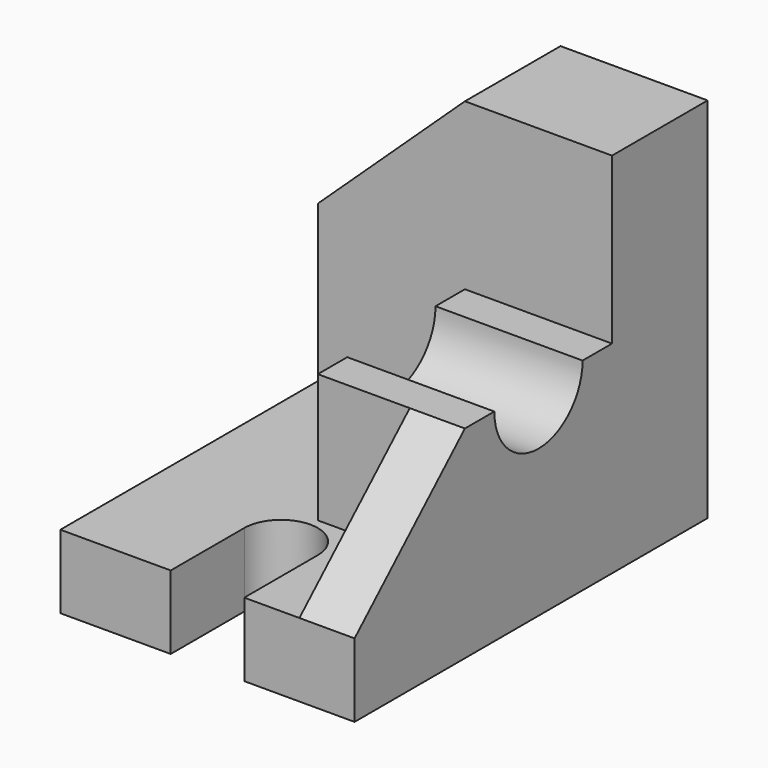
from build123d import *

# Parameters (mm, degrees)
F0_W      = 64
F0_H      = 96
F1_DEPTH  = 16
F3_DEPTH  = 25
F4_W      = 12
F4_H      = 30
F5_DEPTH  = 28
F7_DEPTH  = 25
F8_W      = 32
F8_H      = 40
F9_DEPTH  = 28
F10_R     = 12
F11_DEPTH = 52
F13_DEPTH = 64
F15_DEPTH = 30


with BuildPart() as f1:
    # F0 (on Top) → F1 (new body)
    with BuildSketch(Plane.XY):
        with Locations((6.061017856, -4.2511862218)):
            Rectangle(F0_W, F0_H)
    extrude(amount=F1_DEPTH)

    # F2 (on face) → F3 (cut)
    with BuildSketch(Plane.XY.offset(16)):
        with BuildLine():
            Line((-1.938982144, -32.2511862218), (-1.938982144, -52.2511862218))
            Line((-1.938982144, -52.2511862218), (14.061017856, -52.2511862218))
            Line((14.061017856, -52.2511862218), (14.061017856, -32.2511862218))
            ThreePointArc((14.061017856, -32.2511862218), (6.061017856, -40.2511862218), (-1.938982144, -32.2511862218))
        make_face()
        with BuildLine():
            ThreePointArc((14.061017856, -32.2511862218), (6.061017856, -24.2511862218), (-1.938982144, -32.2511862218))
            Line((-1.938982144, -32.2511862218), (14.061017856, -32.2511862218))
        make_face()
        with BuildLine():
            Line((14.061017856, -32.2511862218), (-1.938982144, -32.2511862218))
            ThreePointArc((-1.938982144, -32.2511862218), (6.061017856, -40.2511862218), (14.061017856, -32.2511862218))
        make_face()
    extrude(amount=-F3_DEPTH, mode=Mode.SUBTRACT)

    # F4 (on face) → F5 (join)
    with BuildSketch(Plane.XY.offset(16)):
        with Locations((32.061017856, -37.2511862218)):
            Rectangle(F4_W, F4_H)
    extrude(amount=F5_DEPTH)

    # F6 (on face) → F7 (cut)
    with BuildSketch(Plane(origin=(26.061017856, 0, 0), x_dir=(0, -1, 0), z_dir=(-1, 0, 0))):
        Polygon((52.2511862218, 44), (22.2511862218, 44), (52.2511862218, 16), align=None)
    extrude(amount=-F7_DEPTH, mode=Mode.SUBTRACT)

    # F8 (on face) → F9 (join)
    with BuildSketch(Plane.XY.offset(16)):
        with Locations((22.061017856, -2.2511862218)):
            Rectangle(F8_W, F8_H)
    extrude(amount=F9_DEPTH)

    # F10 (on face) → F11 (cut)
    with BuildSketch(Plane(origin=(6.061017856, 0, 0), x_dir=(0, -1, 0), z_dir=(-1, 0, 0))):
        with Locations((2.2511862218, 44)):
            Circle(F10_R)
    extrude(amount=-F11_DEPTH, mode=Mode.SUBTRACT)

    # F12 (on face) → F13 (join)
    with BuildSketch(Plane.XY.offset(16)):
        Polygon((-25.938982144, 17.7488137782), (6.061017856, 17.7488137782), (38.061017856, 17.7488137782), (38.061017856, 43.7488137782), (-25.938982144, 43.7488137782), align=None)
    extrude(amount=F13_DEPTH)

    # F14 (on face) → F15 (cut)
    with BuildSketch(Plane.XZ.offset(-17.7488137782)):
        Polygon((-25.938982144, 50), (6.061017856, 80), (-25.938982144, 80), align=None)
    extrude(amount=-F15_DEPTH, mode=Mode.SUBTRACT)


solid = f1.part
